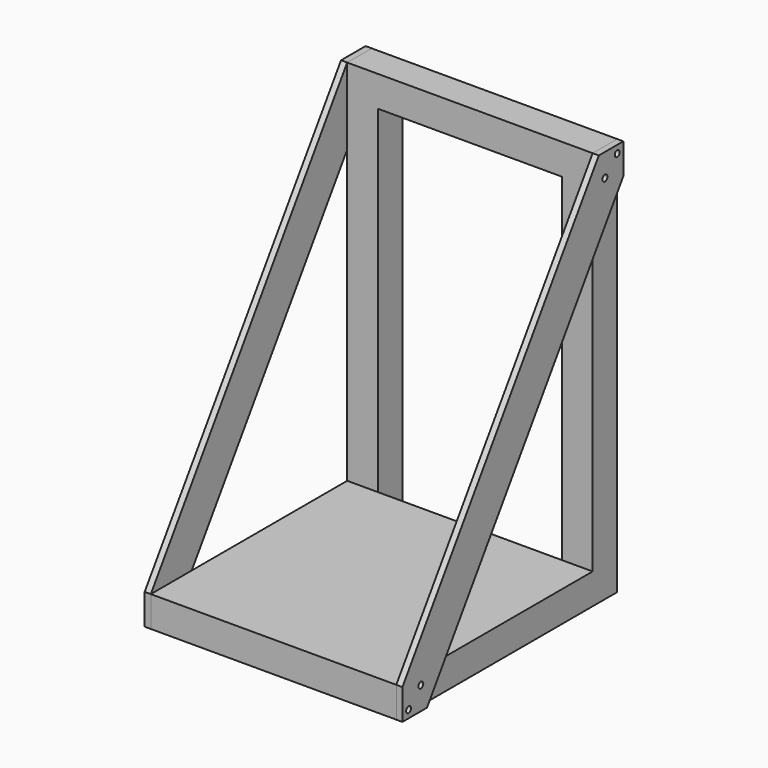
from build123d import *

# Parameters (mm, degrees)
F0_W       = 200
F0_H       = 200
F1_DEPTH   = 25
F2_W       = 25
F2_H       = 25
F3_DEPTH   = 25
F4_W       = 25
F4_H       = 25
F5_DEPTH   = 300
F7_DEPTH   = 5
F9_D       = 5
F9_DEPTH   = 10
F9_TIP     = 1.5021515476
F9_2_D     = 5
F9_2_DEPTH = 10
F9_2_TIP   = 1.5021515476
F10_W      = 100
F10_H      = 267.6203101873
F11_DEPTH  = 325.001
F13_W      = 25
F13_H      = 25
F14_DEPTH  = 150


with BuildPart() as f1:
    # F0 (on Top) → F1 (new body)
    with BuildSketch(Plane.XY):
        Rectangle(F0_W, F0_H)
    extrude(amount=F1_DEPTH)

    # F2 (on face) → F3 (join)
    with BuildSketch(Plane(origin=(0, 100, 0), x_dir=(-1, 0, 0), z_dir=(0, 1, 0))):
        with Locations((-87.5, 12.5)):
            Rectangle(F2_W, F2_H)
        with Locations((87.5, 12.5)):
            Rectangle(F2_W, F2_H)
    extrude(amount=F3_DEPTH)

    # F4 (on face) → F5 (join)
    with BuildSketch(Plane.XY.offset(25)):
        with Locations((87.5, 112.5)):
            Rectangle(F4_W, F4_H)
        with Locations((-87.5, 112.5)):
            Rectangle(F4_W, F4_H)
    extrude(amount=F5_DEPTH)

    # F9
    with Locations(Plane.YZ.offset(105)):
        with Locations((-81.25, 18.75), (-93.75, 6.25), (118.75, 318.75), (106.25, 306.25)):
            Hole(F9_D / 2, depth=F9_DEPTH)
            with Locations((0, 0, -(F9_DEPTH + F9_TIP / 2))):  # 118° drill point
                Cone(0, F9_D / 2, F9_TIP, mode=Mode.SUBTRACT)

    # F10 (on face) → F11 (cut, through all)
    with BuildSketch(Plane.XY.offset(325)):
        with Locations((-50, -8.8101550937)):
            Rectangle(F10_W, F10_H)
    extrude(amount=-F11_DEPTH, mode=Mode.SUBTRACT)


with BuildPart() as f7:
    # F6 (on face) → F7 (new body)
    with BuildSketch(Plane.YZ.offset(100)):
        Polygon((125, 300), (125, 325), (100, 325), (-100, 25), (-100, 0), (-75, 0), align=None)
    extrude(amount=F7_DEPTH)

    # F9#2
    with Locations(Plane.YZ.offset(105)):
        with Locations((-81.25, 18.75), (-93.75, 6.25), (118.75, 318.75), (106.25, 306.25)):
            Hole(F9_2_D / 2, depth=F9_2_DEPTH)
            with Locations((0, 0, -(F9_2_DEPTH + F9_2_TIP / 2))):  # 118° drill point
                Cone(0, F9_2_D / 2, F9_2_TIP, mode=Mode.SUBTRACT)


with BuildPart() as f12_1:
    # F12: instance of F7
    add(f7.part.mirror(Plane(origin=(0, 0, 12.5), x_dir=(0, -1, 0), z_dir=(-1, 0, 0))))


with BuildPart() as f12_2:
    # F12: instance of F1
    add(f1.part.mirror(Plane(origin=(0, 0, 12.5), x_dir=(0, -1, 0), z_dir=(-1, 0, 0))))


with BuildPart() as f1_1:
    add(f1.part)

    add(f12_2.part)  # F14 merges F12_2
    # F13 (on face) → F14 (join, through all)
    with BuildSketch(Plane.YZ.offset(-75)):
        with Locations((112.5, 312.5)):
            Rectangle(F13_W, F13_H)
    extrude(amount=F14_DEPTH)


solid = Compound([f7.part, f12_1.part, f1_1.part])
